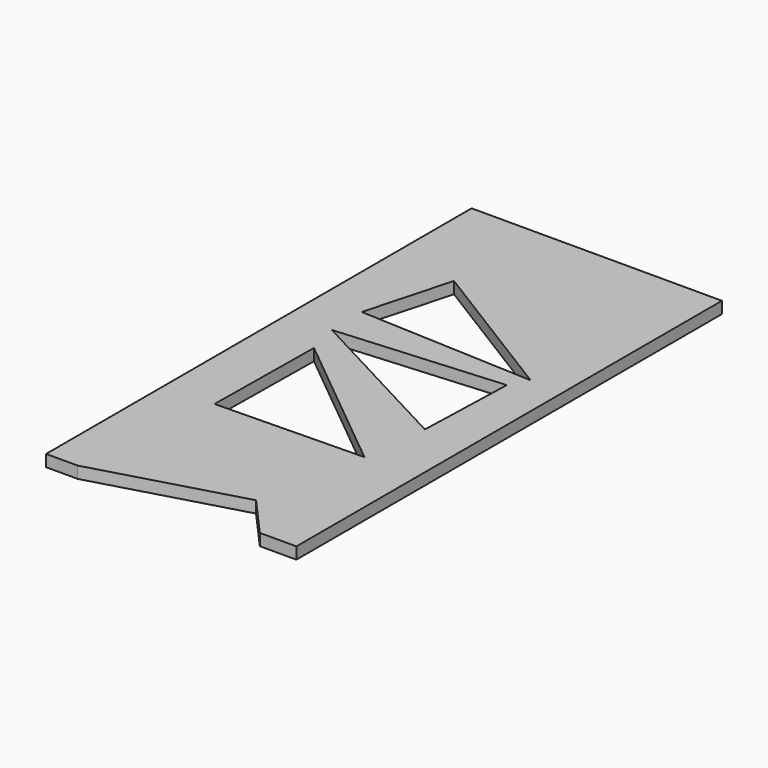
from build123d import *

# Parameters (mm, degrees)
F1_DEPTH = 19.05


with BuildPart() as f1:
    # F0 (on Top) → F1 (new body)
    with BuildSketch(Plane.XY):
        Polygon((297.050197, 397.317676), (-109.349803, 397.317676), (-109.349803, -466.282324), (-58.057822, -466.282324), (178.001612, -399.338305), (237.651035, -466.282324), (297.050197, -466.282324), align=None)
        Polygon((-28.267516, -225.826263), (-25.87169, -26.973946), (211.31359, -221.034646), align=None, mode=Mode.SUBTRACT)
        Polygon((228.767082, 46.128679), (223.69054, -113.782555), (-39.020769, 25.82249), align=None, mode=Mode.SUBTRACT)
        Polygon((-2.2158, 227.615237), (243.996739, 75.318821), (-40.289905, 88.010184), align=None, mode=Mode.SUBTRACT)
    extrude(amount=F1_DEPTH)


solid = f1.part
